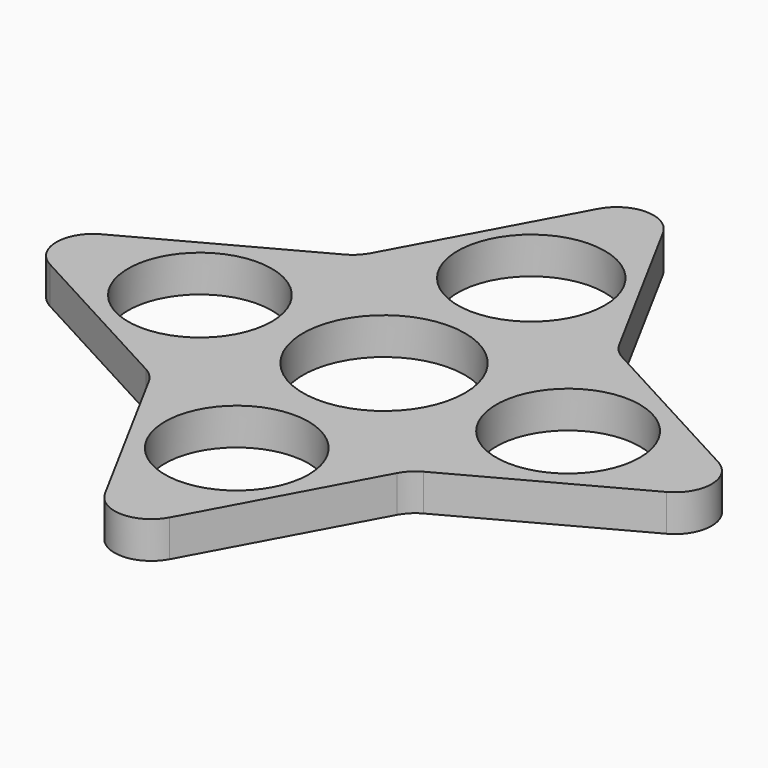
from build123d import *

# Parameters (mm, degrees)
F0_R     = 9.75
F0_R_2   = 11
F0_R_3   = 10
F1_DEPTH = 5
F2_R     = 5


with BuildPart() as f1:
    # F0 (on Top) → F1 (new body)
    with BuildSketch(Plane.XY):
        Polygon((17.555703, 17.555703), (0, 50), (-17.555703, 17.555703), (-50, 0), (-17.555703, -17.555703), (0, -50), (17.555703, -17.555703), (50, 0), align=None)
        with Locations((0, -25)):
            Circle(F0_R, mode=Mode.SUBTRACT)
        with Locations((-25, 0)):
            Circle(F0_R, mode=Mode.SUBTRACT)
        Circle(F0_R_2, mode=Mode.SUBTRACT)
        with Locations((25, 0)):
            Circle(F0_R, mode=Mode.SUBTRACT)
        with Locations((0, 25)):
            Circle(F0_R_3, mode=Mode.SUBTRACT)
    extrude(amount=F1_DEPTH)

    # F2
    f2_edges = [f1.edges().sort_by_distance(p)[0] for p in [
        (0, -50, 2.5),
        (50, 0, 2.5),
        (0, 50, 2.5),
        (-50, 0, 2.5),
        (17.555703, 17.555703, 2.5),
        (-17.555703, 17.555703, 2.5),
        (-17.555703, -17.555703, 2.5),
        (17.555703, -17.555703, 2.5),
    ]]
    fillet(f2_edges, radius=F2_R)


solid = f1.part
